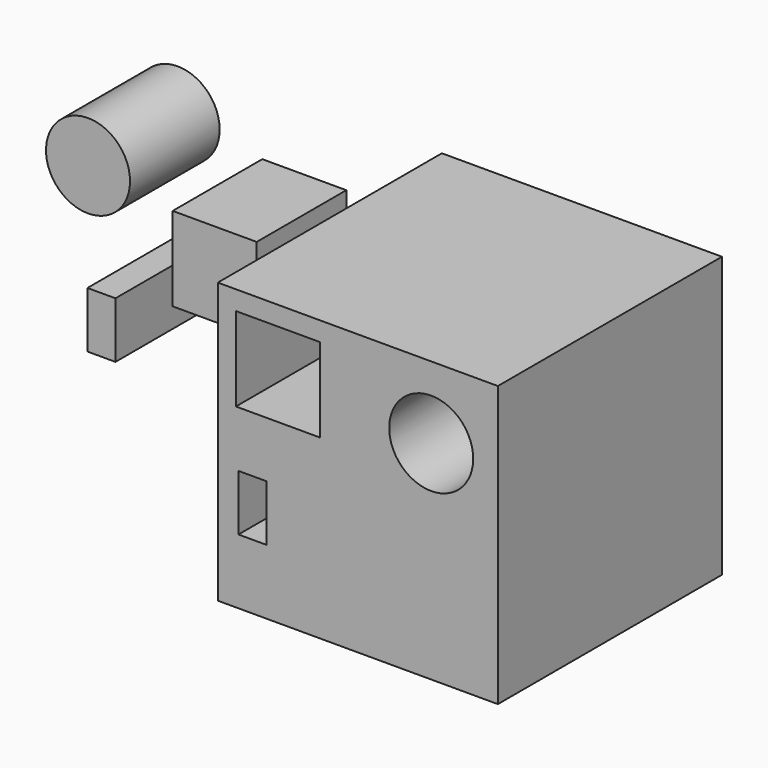
from build123d import *

# Parameters (mm, degrees)
F0_W      = 127
F0_H      = 127
F1_DEPTH  = 127
F2_W      = 38.1
F2_H      = 38.1
F3_DEPTH  = 50.8
F4_R      = 19.05
F5_DEPTH  = 50.8
F6_W      = 12.7
F6_H      = 25.4
F7_DEPTH  = 50.8
F8_W      = 38.1
F8_H      = 38.1
F5_FACE_R = 19.05
F9_DEPTH  = 50.8
F10_DEPTH = 50.8
F11_R     = 19.05
F12_DEPTH = 50.8
F13_W     = 12.7
F13_H     = 25.4
F14_DEPTH = 50.8


with BuildPart() as f1:
    # F0 (on Front) → F1 (new body)
    with BuildSketch(Plane.XZ):
        Rectangle(F0_W, F0_H)
    extrude(amount=F1_DEPTH)

    # F2 (on face) → F3 (cut)
    with BuildSketch(Plane.XZ.offset(127)):
        with Locations((-36.2448990345, 35.754707144)):
            Rectangle(F2_W, F2_H)
    extrude(amount=-F3_DEPTH, mode=Mode.SUBTRACT)

    # F4 (on face) → F5 (cut)
    with BuildSketch(Plane.XZ.offset(127)):
        with Locations((33.2637727261, 30.794300139)):
            Circle(F4_R)
    extrude(amount=-F5_DEPTH, mode=Mode.SUBTRACT)

    # F6 (on face) → F7 (cut)
    with BuildSketch(Plane.XZ.offset(127)):
        with Locations((-47.789681504, -21.3277824223)):
            Rectangle(F6_W, F6_H)
    extrude(amount=-F7_DEPTH, mode=Mode.SUBTRACT)


with BuildPart() as f9:
    # F8 (on Front) + F5_face (on face) → F9 (new body)
    with BuildSketch(Plane.XZ):
        with Locations((-125.88457973, 15.6128162026)):
            Rectangle(F8_W, F8_H)
    with BuildSketch(Plane(origin=(33.2637727261, -76.2, 30.794300139), x_dir=(1, 0, 0), z_dir=(0, -1, 0))):
        Circle(F5_FACE_R)
    extrude(amount=F9_DEPTH)

    # F10 (cut): a face of the model
    f10_faces = [f9.faces().sort_by_distance(p)[0] for p in [
        (33.2637727261, -127, 30.794300139),
    ]]
    extrude(f10_faces, amount=-F10_DEPTH, mode=Mode.SUBTRACT)


with BuildPart() as f12:
    # F11 (on Front) → F12 (new body)
    with BuildSketch(Plane.XZ):
        with Locations((-183.3253204823, 40.2080565691)):
            Circle(F11_R)
    extrude(amount=F12_DEPTH)


with BuildPart() as f14:
    # F13 (on Front) → F14 (new body)
    with BuildSketch(Plane.XZ):
        with Locations((-177.2235408425, -21.3700703451)):
            Rectangle(F13_W, F13_H)
    extrude(amount=F14_DEPTH)


solid = Compound([f1.part, f9.part, f12.part, f14.part])
